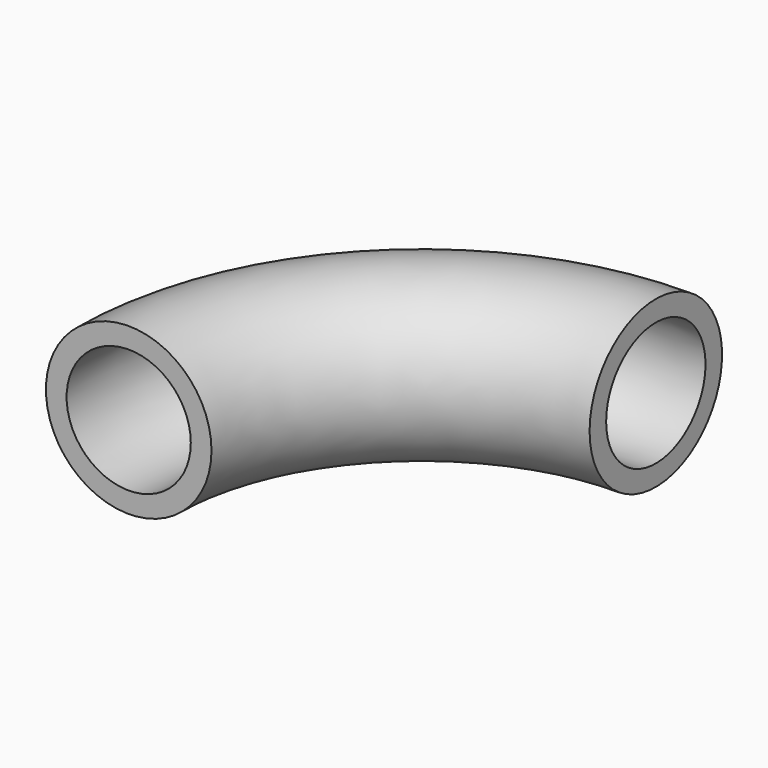
from build123d import *

# Parameters (mm, degrees)
F0_R     = 12.7
F0_R_2   = 9.525
F2_ANGLE = 90


with BuildPart() as f2:
    # F0 (on Front) → F2 (revolve)
    with BuildSketch(Plane.XZ):
        Circle(F0_R)
        Circle(F0_R_2, mode=Mode.SUBTRACT)
    revolve(axis=Axis((44.927929, 0, 8.868793), (0, 0, -1)), revolution_arc=F2_ANGLE)


solid = f2.part
